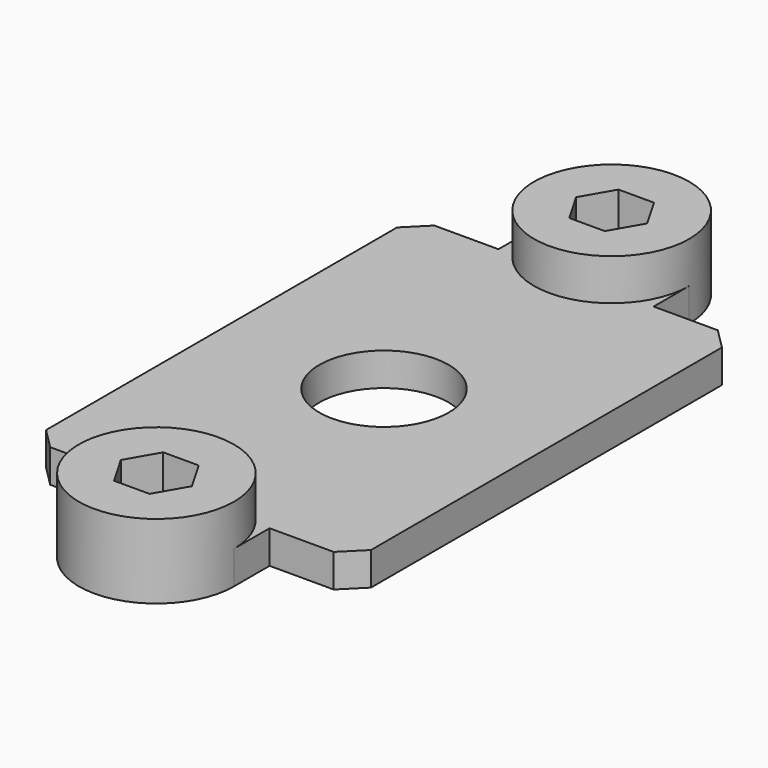
from build123d import *

# Parameters (mm, degrees)
F0_W      = 25
F0_H      = 40
F0_R      = 6.25
F1_DEPTH  = 3.2
F2_W      = 25
F2_H      = 40
F3_DEPTH  = 40
F4_W      = 15
F4_H      = 46.4
F4_R      = 2.25
F5_DEPTH  = 5
F6_SIZE   = 2
F7_R      = 2.25
F8_DEPTH  = 3.2
F9_W      = 46.4
F9_H      = 70
F10_DEPTH = 36.8
F11_W     = 25
F11_H     = 40
F11_R     = 6.25
F12_DEPTH = 3.2
F13_R     = 7.5
F14_DEPTH = 4


with BuildPart() as f1:
    # F0 (on Top) → F1 (new body)
    with BuildSketch(Plane.XY):
        Rectangle(F0_W, F0_H)
        Circle(F0_R, mode=Mode.SUBTRACT)
    extrude(amount=F1_DEPTH)

    # F2 (on face) → F3 (join)
    with BuildSketch(Plane.XY.offset(3.2)):
        with BuildLine():
            Line((15.7, -23.2), (15.7, 23.2))
            Line((15.7, 23.2), (7.5, 23.2))
            Line((7.5, 23.2), (7.5, 27.5))
            ThreePointArc((7.5, 27.5), (0, 35), (-7.5, 27.5))
            Line((-7.5, 27.5), (-7.5, 23.2))
            Line((-7.5, 23.2), (-15.7, 23.2))
            Line((-15.7, 23.2), (-15.7, -23.2))
            Line((-15.7, -23.2), (-7.5, -23.2))
            Line((-7.5, -23.2), (-7.5, -27.5))
            ThreePointArc((-7.5, -27.5), (0, -35), (7.5, -27.5))
            Line((7.5, -27.5), (7.5, -23.2))
            Line((7.5, -23.2), (15.7, -23.2))
        make_face()
        Polygon((-3.4352341017, -27.5), (-1.7176170508, -24.525), (1.7176170508, -24.525), (3.4352341017, -27.5), (1.7176170508, -30.475), (-1.7176170508, -30.475), align=None, mode=Mode.SUBTRACT)
        Rectangle(F2_W, F2_H, mode=Mode.SUBTRACT)
        Polygon((-3.4352341017, 27.5), (-1.7176170508, 30.475), (1.7176170508, 30.475), (3.4352341017, 27.5), (1.7176170508, 24.525), (-1.7176170508, 24.525), align=None, mode=Mode.SUBTRACT)
    extrude(amount=-F3_DEPTH)

    # F4 (on face) → F5 (join)
    with BuildSketch(Plane.XY.offset(3.2)):
        with Locations((-23.2, 0)):
            Rectangle(F4_W, F4_H)
        with Locations((-23.2, -13.2)):
            Circle(F4_R, mode=Mode.SUBTRACT)
        with Locations((-23.2, 13.2)):
            Circle(F4_R, mode=Mode.SUBTRACT)
    extrude(amount=-F5_DEPTH)

    # F6
    f6_edges = [f1.edges().sort_by_distance(p)[0] for p in [
        (15.7, 23.2, -16.8),
        (-15.7, 23.2, -19.3),
        (-15.7, -23.2, -19.3),
        (15.7, -23.2, -16.8),
        (-30.7, 23.2, 0.7),
        (-30.7, -23.2, 0.7),
    ]]
    chamfer(f6_edges, length=F6_SIZE)

    # F7 (on face) → F8 (join)
    with BuildSketch(Plane(origin=(0, 0, -36.8), x_dir=(1, 0, 0), z_dir=(0, 0, -1))):
        Polygon((1.7176170508, 30.475), (-1.7176170508, 30.475), (-3.4352341017, 27.5), (-1.7176170508, 24.525), (1.7176170508, 24.525), (3.4352341017, 27.5), align=None)
        with Locations((0, 27.5)):
            Circle(F7_R, mode=Mode.SUBTRACT)
        Polygon((-3.4352341017, -27.5), (-1.7176170508, -30.475), (1.7176170508, -30.475), (3.4352341017, -27.5), (1.7176170508, -24.525), (-1.7176170508, -24.525), align=None)
        with Locations((0, -27.5)):
            Circle(F7_R, mode=Mode.SUBTRACT)
    extrude(amount=-F8_DEPTH)

    # F9 (on face) → F10 (cut)
    with BuildSketch(Plane.XY.offset(3.2)):
        with Locations((-7.5, 0)):
            Rectangle(F9_W, F9_H)
    extrude(amount=-F10_DEPTH, mode=Mode.SUBTRACT)

    # F11 (on face) → F12 (join)
    with BuildSketch(Plane.XY.offset(-33.6)):
        Rectangle(F11_W, F11_H)
        Circle(F11_R, mode=Mode.SUBTRACT)
    extrude(amount=-F12_DEPTH)

    # F13 (on face) → F14 (join)
    with BuildSketch(Plane.XY.offset(-33.6)):
        with Locations((0, 27.5)):
            Circle(F13_R)
        Polygon((-3.4352341017, 27.5), (-1.7176170508, 30.475), (1.7176170508, 30.475), (3.4352341017, 27.5), (1.7176170508, 24.525), (-1.7176170508, 24.525), align=None, mode=Mode.SUBTRACT)
        with Locations((0, -27.5)):
            Circle(F13_R)
        Polygon((-3.4352341017, -27.5), (-1.7176170508, -24.525), (1.7176170508, -24.525), (3.4352341017, -27.5), (1.7176170508, -30.475), (-1.7176170508, -30.475), align=None, mode=Mode.SUBTRACT)
    extrude(amount=F14_DEPTH)


solid = f1.part
